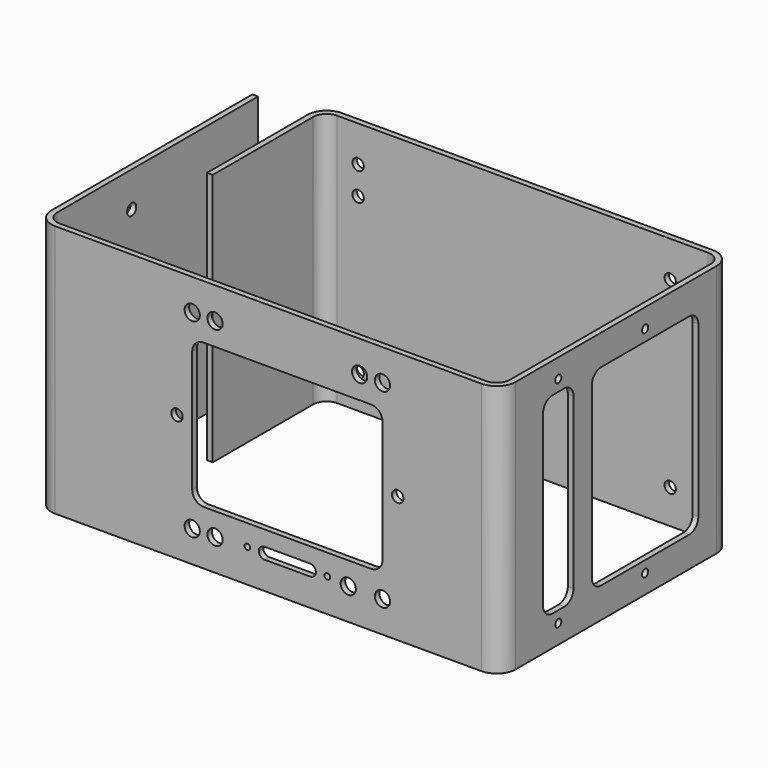
from build123d import *

# Parameters (mm, degrees)
F1_DEPTH = 66.5
F2_R     = 1.5
F2_R_2   = 2
F2_R_3   = 0.75
F3_DEPTH = 25
F4_R     = 1.5
F5_DEPTH = 25
F6_R     = 1
F7_DEPTH = 25
F8_R     = 1.5
F9_DEPTH = 1.5


with BuildPart() as f1:
    # F0 (on Top) → F1 (new body)
    with BuildSketch(Plane.XY):
        with BuildLine():
            Line((-64.5, -33), (-64.5, 33))
            Line((-64.5, 33), (-66, 33))
            Line((-66, 33), (-66, -33))
            ThreePointArc((-66, -33), (-64.535534, -36.535534), (-61, -38))
            Line((-61, -38), (51, -38))
            ThreePointArc((51, -38), (54.535534, -36.535534), (56, -33))
            Line((56, -33), (56, 33))
            ThreePointArc((56, 33), (54.535534, 36.535534), (51, 38))
            Line((51, 38), (-46.5, 38))
            ThreePointArc((-46.5, 38), (-50.035534, 36.535534), (-51.5, 33))
            Line((-51.5, 33), (-51.5, 0))
            Line((-51.5, 0), (-50, 0))
            Line((-50, 0), (-50, 33))
            ThreePointArc((-50, 33), (-48.974874, 35.474874), (-46.5, 36.5))
            Line((-46.5, 36.5), (51, 36.5))
            ThreePointArc((51, 36.5), (53.474874, 35.474874), (54.5, 33))
            Line((54.5, 33), (54.5, -33))
            ThreePointArc((54.5, -33), (53.474874, -35.474874), (51, -36.5))
            Line((51, -36.5), (-61, -36.5))
            ThreePointArc((-61, -36.5), (-63.474874, -35.474874), (-64.5, -33))
        make_face()
    extrude(amount=F1_DEPTH)

    # F2 (on face) → F3 (cut)
    with BuildSketch(Plane.XZ.offset(38)):
        with BuildLine():
            Line((22, 52.25), (-22, 52.25))
            ThreePointArc((-22, 52.25), (-24.12132, 51.37132), (-25, 49.25))
            Line((-25, 49.25), (-25, 17.25))
            ThreePointArc((-25, 17.25), (-24.12132, 15.12868), (-22, 14.25))
            Line((-22, 14.25), (22, 14.25))
            ThreePointArc((22, 14.25), (24.12132, 15.12868), (25, 17.25))
            Line((25, 17.25), (25, 49.25))
            ThreePointArc((25, 49.25), (24.12132, 51.37132), (22, 52.25))
        make_face()
        with Locations((-29, 33.25)):
            Circle(F2_R)
        with Locations((29, 33.25)):
            Circle(F2_R)
        with Locations((-25, 58.25)):
            Circle(F2_R_2)
        with Locations((25, 58.25)):
            Circle(F2_R_2)
        with Locations((-25, 8.25)):
            Circle(F2_R_2)
        with Locations((25, 8.25)):
            Circle(F2_R_2)
        with BuildLine():
            ThreePointArc((-7.5, 8.75), (-7.06066, 7.68934), (-6, 7.25))
            Line((-6, 7.25), (6, 7.25))
            ThreePointArc((6, 7.25), (7.06066, 7.68934), (7.5, 8.75))
            ThreePointArc((7.5, 8.75), (7.06066, 9.81066), (6, 10.25))
            Line((6, 10.25), (-6, 10.25))
            ThreePointArc((-6, 10.25), (-7.06066, 9.81066), (-7.5, 8.75))
        make_face()
        with Locations((-10.5, 8.75)):
            Circle(F2_R_3)
        with Locations((10.5, 8.75)):
            Circle(F2_R_3)
        with Locations((-19, 8.25)):
            Circle(F2_R_2)
        with Locations((-19, 58.25)):
            Circle(F2_R_2)
        with Locations((19, 58.25)):
            Circle(F2_R_2)
        with Locations((16, 8.25)):
            Circle(F2_R_2)
    extrude(amount=-F3_DEPTH, mode=Mode.SUBTRACT)

    # F4 (on face) → F5 (cut)
    with BuildSketch(Plane(origin=(0, 38, 0), x_dir=(-1, 0, 0), z_dir=(0, 1, 0))):
        with Locations((-41, 57)):
            Circle(F4_R)
        with Locations((-41, 9)):
            Circle(F4_R)
        with Locations((41, 9)):
            Circle(F4_R)
        with Locations((41, 57)):
            Circle(F4_R)
        with Locations((41, 16.375)):
            Circle(F4_R)
        with Locations((41, 49.625)):
            Circle(F4_R)
    extrude(amount=-F5_DEPTH, mode=Mode.SUBTRACT)

    # F6 (on face) → F7 (cut)
    with BuildSketch(Plane.YZ.offset(56)):
        with BuildLine():
            Line((-17, 58.5), (-21, 58.5))
            ThreePointArc((-21, 58.5), (-23.12132, 57.62132), (-24, 55.5))
            Line((-24, 55.5), (-24, 11))
            ThreePointArc((-24, 11), (-23.12132, 8.87868), (-21, 8))
            Line((-21, 8), (-17, 8))
            ThreePointArc((-17, 8), (-14.87868, 8.87868), (-14, 11))
            Line((-14, 11), (-14, 55.5))
            ThreePointArc((-14, 55.5), (-14.87868, 57.62132), (-17, 58.5))
        make_face()
        with BuildLine():
            Line((24, 58.5), (-5, 58.5))
            ThreePointArc((-5, 58.5), (-7.12132, 57.62132), (-8, 55.5))
            Line((-8, 55.5), (-8, 11))
            ThreePointArc((-8, 11), (-7.12132, 8.87868), (-5, 8))
            Line((-5, 8), (24, 8))
            ThreePointArc((24, 8), (26.12132, 8.87868), (27, 11))
            Line((27, 11), (27, 55.5))
            ThreePointArc((27, 55.5), (26.12132, 57.62132), (24, 58.5))
        make_face()
        with BuildLine():
            Line((-17, 58.5), (-21, 58.5))
            ThreePointArc((-21, 58.5), (-23.12132, 57.62132), (-24, 55.5))
            Line((-24, 55.5), (-24, 11))
            ThreePointArc((-24, 11), (-23.12132, 8.87868), (-21, 8))
            Line((-21, 8), (-17, 8))
            ThreePointArc((-17, 8), (-14.87868, 8.87868), (-14, 11))
            Line((-14, 11), (-14, 55.5))
            ThreePointArc((-14, 55.5), (-14.87868, 57.62132), (-17, 58.5))
        make_face()
        with BuildLine():
            Line((24, 58.5), (-5, 58.5))
            ThreePointArc((-5, 58.5), (-7.12132, 57.62132), (-8, 55.5))
            Line((-8, 55.5), (-8, 11))
            ThreePointArc((-8, 11), (-7.12132, 8.87868), (-5, 8))
            Line((-5, 8), (24, 8))
            ThreePointArc((24, 8), (26.12132, 8.87868), (27, 11))
            Line((27, 11), (27, 55.5))
            ThreePointArc((27, 55.5), (26.12132, 57.62132), (24, 58.5))
        make_face()
        with Locations((-19, 61.5)):
            Circle(F6_R)
        with Locations((9.5, 61.5)):
            Circle(F6_R)
        with Locations((9.5, 5)):
            Circle(F6_R)
        with Locations((-19, 5)):
            Circle(F6_R)
    extrude(amount=-F7_DEPTH, mode=Mode.SUBTRACT)

    # F8 (on face) → F9 (cut)
    with BuildSketch(Plane(origin=(-66, 0, 0), x_dir=(0, -1, 0), z_dir=(-1, 0, 0))):
        with Locations((8.5, 57.25)):
            Circle(F8_R)
        with Locations((8.5, 9.25)):
            Circle(F8_R)
    extrude(amount=-F9_DEPTH, mode=Mode.SUBTRACT)


solid = f1.part
